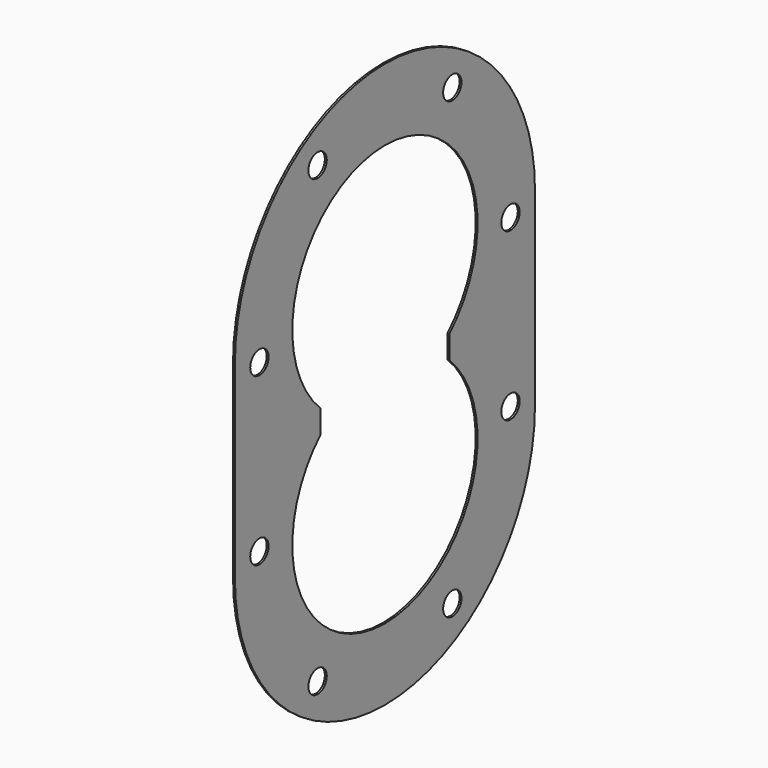
from build123d import *

# Parameters (mm, degrees)
F1_DEPTH = 0.5
F2_D     = 6


with BuildPart() as f1:
    # F0 (on Right) → F1 (new body)
    with BuildSketch(Plane.YZ):
        with BuildLine():
            Line((49, -24.75), (49, 24.75))
            ThreePointArc((49, 24.75), (0, 73.75), (-49, 24.75))
            Line((-49, 24.75), (-49, -24.75))
            ThreePointArc((-49, -24.75), (0, -73.75), (49, -24.75))
        make_face()
        with BuildLine():
            ThreePointArc((-21, 2.977024), (0, 55), (21, 2.977024))
            Line((21, 2.977024), (21, -2.977024))
            ThreePointArc((21, -2.977024), (0, -55), (-21, -2.977024))
            Line((-21, -2.977024), (-21, 2.977024))
        make_face(mode=Mode.SUBTRACT)
    extrude(amount=F1_DEPTH)

    # F2 (through all)
    with Locations(Plane(origin=(0, 0, 0), x_dir=(0, 1, 0), z_dir=(-1, 0, 0))):
        with Locations((22, 59.347688), (-22, 59.347688), (-41, 21.75), (-41, -21.75), (-22, -59.347688), (22, -59.347688), (41, -21.75), (41, 21.75)):
            Hole(F2_D / 2)


solid = f1.part
